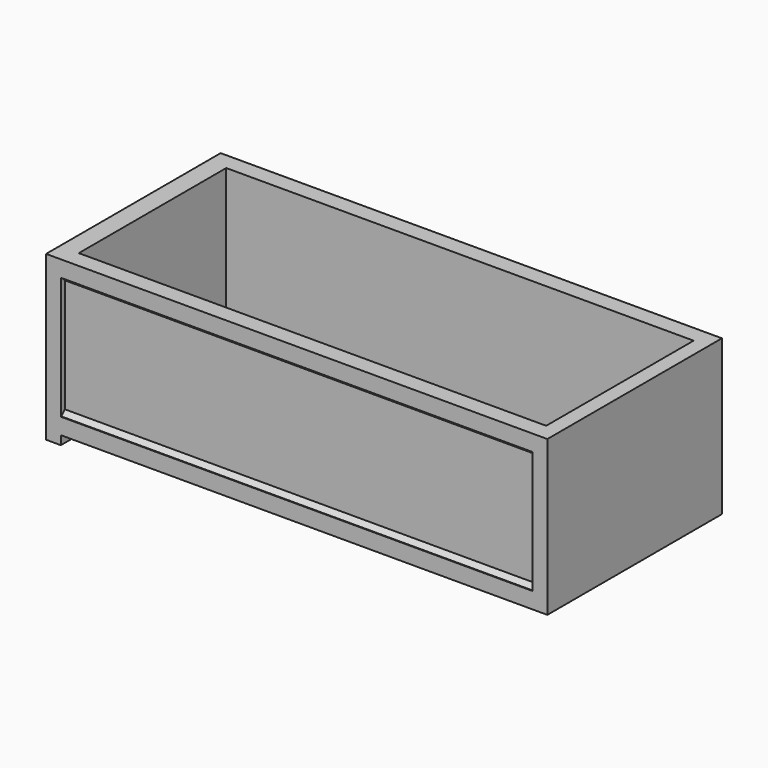
from build123d import *

# Parameters (mm, degrees)
F1_DEPTH  = 32
F2_W      = 1
F2_H      = 10.5
F3_DEPTH  = 7.4
F4_W      = 7.4
F4_H      = 10.9
F5_DEPTH  = 1
F6_W      = 3.9333333333
F6_H      = 8.7
F6_W_2    = 1.9666666667
F7_DEPTH  = 0.4
F8_SIZE   = 0.3
F10_DEPTH = 0.8
F12_W     = 1
F12_H     = 14.8
F13_DEPTH = 0.2
F14_DEPTH = 0.3
F15_W     = 3.9333333333
F15_H     = 6.4
F16_DEPTH = 0.25
F18_DEPTH = 0.25


with BuildPart() as f1:
    # F0 (on Right) → F1 (new body)
    with BuildSketch(Plane.YZ):
        Polygon((-6.25, 10.9), (-7.4, 10.9), (-7.4, 9.8), (-7.05, 9.8), (-7.05, 1.5), (-7.4, 1.5), (-7.4, 0.4), (-2.9, 0.4), (-2.9, 0), (-2, 0), (-2, 0.4), (0, 0.4), (0, 1.2), (-6.25, 1.2), align=None)
    extrude(amount=F1_DEPTH)

    # F2 (on face) → F3 (join, through all)
    with BuildSketch(Plane.XZ.offset(7.4)):
        with Locations((32.5, 5.65)):
            Rectangle(F2_W, F2_H)
    extrude(amount=-F3_DEPTH)

    # F4 (on face) → F5 (join)
    with BuildSketch(Plane(origin=(0, 0, 0), x_dir=(0, -1, 0), z_dir=(-1, 0, 0))):
        with Locations((3.7, 5.45)):
            Rectangle(F4_W, F4_H)
    extrude(amount=F5_DEPTH)

    # F6 (on face) → F7 (cut)
    with BuildSketch(Plane(origin=(-1, 0, 0), x_dir=(0, -1, 0), z_dir=(-1, 0, 0))):
        with Locations((4.5333333333, 5.45)):
            Rectangle(F6_W, F6_H)
        with Locations((0.9833333333, 5.45)):
            Rectangle(F6_W_2, F6_H)
    extrude(amount=-F7_DEPTH, mode=Mode.SUBTRACT)

    # F8
    f8_edges = [f1.edges().sort_by_distance(p)[0] for p in [
        (16, -7.05, 1.5),
        (16, -7.05, 9.8),
    ]]
    chamfer(f8_edges, length=F8_SIZE)

    # F9 (on face) → F10 (join)
    with BuildSketch(Plane(origin=(0, 0, 0), x_dir=(-1, 0, 0), z_dir=(0, 1, 0))):
        Polygon((-32, 9.5), (-32, 1.2), (-30.5, 1.2), (-31.7, 9.5), align=None)
    extrude(amount=-F10_DEPTH)

    # F11: F1 across face


with BuildPart() as f1_1:
    add(f1.part)
    add(f1.part.mirror(Plane(origin=(19.2854383212, 0, 3.0068542852), x_dir=(-1, 0, 0), z_dir=(0, 1, 0))))

    # F12 (on face) → F13 (join)
    with BuildSketch(Plane(origin=(0, 0, 0), x_dir=(1, 0, 0), z_dir=(0, 0, -1))):
        with Locations((-0.5, 0)):
            Rectangle(F12_W, F12_H)
    extrude(amount=F13_DEPTH)

    # F14 (add): a face of the model
    f14_faces = [f1_1.faces().sort_by_distance(p)[0] for p in [
        (0, 0, 6.05),
    ]]
    extrude(f14_faces, amount=F14_DEPTH)

    # F15 (on face) → F16 (join)
    with BuildSketch(Plane(origin=(-0.6, 0, 0), x_dir=(0, -1, 0), z_dir=(-1, 0, 0))):
        with Locations((0, 4.3)):
            Rectangle(F15_W, F15_H)
    extrude(amount=F16_DEPTH)

    # F17 (on face) → F18 (join)
    with BuildSketch(Plane(origin=(-0.85, 0, 0), x_dir=(0, -1, 0), z_dir=(-1, 0, 0))):
        Polygon((-0.7, 6.3), (-1, 6.3), (-1, 2.1), (1, 2.1), (1, 6.3), (0.7, 6.3), (0.7, 2.4), (-0.7, 2.4), align=None)
    extrude(amount=F18_DEPTH)


solid = f1_1.part
